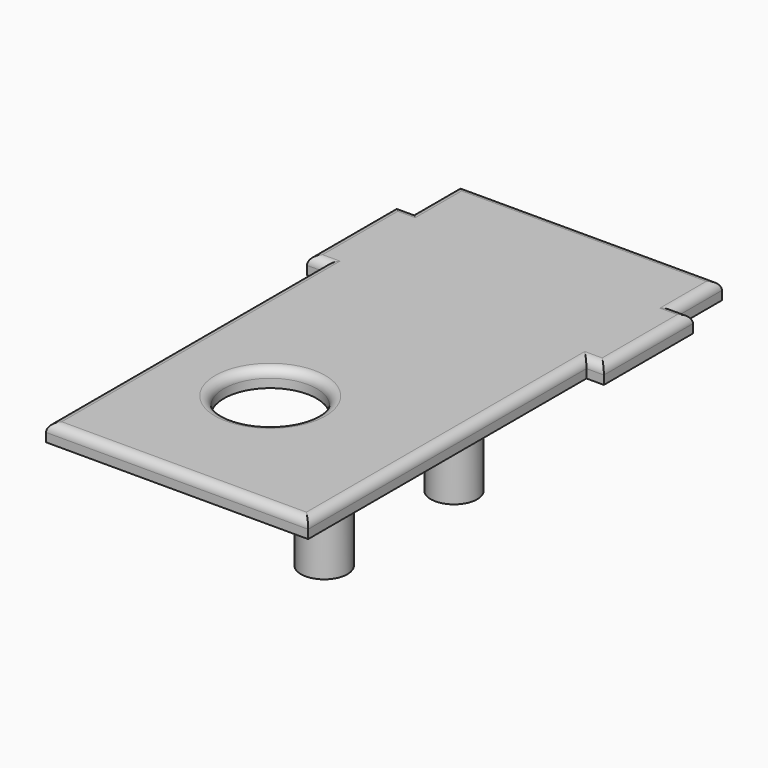
from build123d import *

# Parameters (mm, degrees)
SKETCH011_R             = 4
PAD004_DEPTH            = 1.5
SKETCH012_R             = 2
PAD005_DEPTH            = 6.3
SKETCH013_W             = 3
SKETCH013_H             = 4
POCKET004_DEPTH         = 1.1
FILLET004_R             = 1
SKETCH014_R             = 1.1
POCKET010_DEPTH         = 3
FILLET016_R             = 0.75
BODY002_PLACEMENT_ANGLE = 90


with BuildPart() as part:
    # Sketch011 → Pad004 (new body)
    with BuildSketch(Plane.XY):
        Polygon((29.8, 11.3), (24.8, 11.3), (24.8, 12.8), (15.2, 12.8), (15.2, 11.3), (-14.8, 11.3), (-14.8, -11.3), (15.2, -11.3), (15.2, -12.8), (24.8, -12.8), (24.8, -11.3), (29.8, -11.3), align=None)
        with Locations((-2.325, 1.95)):
            Circle(SKETCH011_R, mode=Mode.SUBTRACT)
    extrude(amount=PAD004_DEPTH)

    # Sketch012 → Pad005 (join)
    with BuildSketch(Plane.XY):
        with Locations((6.3, -7)):
            Circle(SKETCH012_R)
        with Locations((-7.7, -7)):
            Circle(SKETCH012_R)
    extrude(amount=-PAD005_DEPTH)

    # Sketch013 → Pocket004 (cut)
    with BuildSketch(Plane.XY):
        with Locations((-9.125, 1.95)):
            Rectangle(SKETCH013_W, SKETCH013_H)
    extrude(amount=POCKET004_DEPTH, mode=Mode.SUBTRACT)

    # Fillet004
    fillet004_edges = [part.edges().sort_by_distance(p)[0] for p in [
        (4.3, -7, 0),
        (-9.7, -7, 0),
    ]]
    fillet(fillet004_edges, radius=FILLET004_R)

    # Sketch014 → Pocket010 (cut)
    with BuildSketch(Plane.XY.offset(-6.3)):
        with Locations((-7.7, -7)):
            Circle(SKETCH014_R)
        with Locations((6.3, -7)):
            Circle(SKETCH014_R)
    extrude(amount=POCKET010_DEPTH, mode=Mode.SUBTRACT)

    # Fillet016
    fillet016_edges = [part.edges().sort_by_distance(p)[0] for p in [
        (27.3, -11.3, 1.5),
        (29.8, 0, 1.5),
        (27.3, 11.3, 1.5),
        (24.8, 12.05, 1.5),
        (20, 12.8, 1.5),
        (15.2, 12.05, 1.5),
        (0.2, 11.3, 1.5),
        (-14.8, 0, 1.5),
        (0.2, -11.3, 1.5),
        (15.2, -12.05, 1.5),
        (20, -12.8, 1.5),
        (24.8, -12.05, 1.5),
        (-6.325, 1.95, 1.5),
    ]]
    fillet(fillet016_edges, radius=FILLET016_R)


with BuildPart() as part_1:
    # Body002 placement: moved
    add(part.part.moved(Location((39, -34, 18.8))).rotate(Axis((39, -34, 18.8), (0, 0, 1)), BODY002_PLACEMENT_ANGLE))


solid = part_1.part
